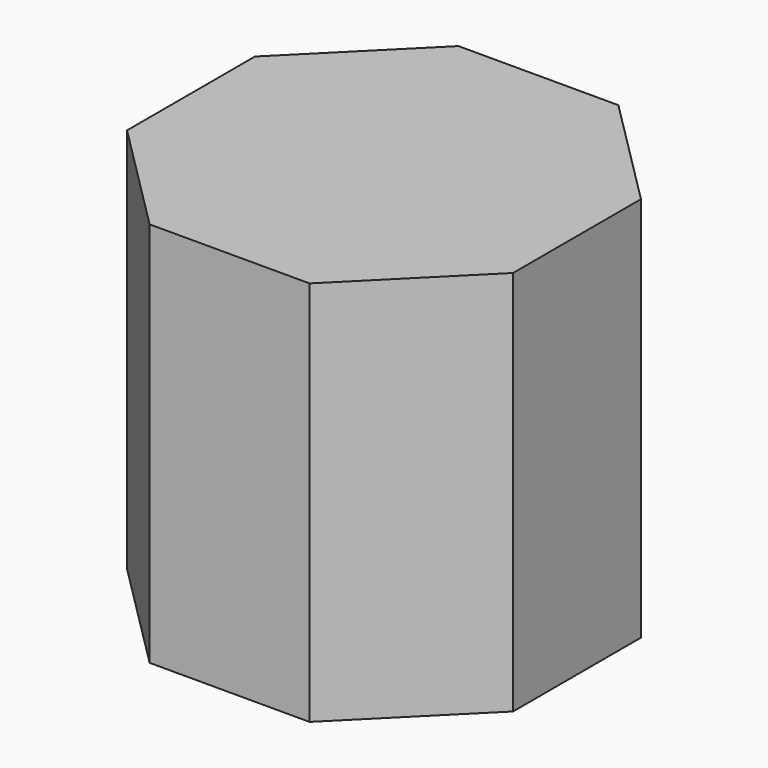
from build123d import *

# Parameters (mm, degrees)
F1_DEPTH = 101.6


with BuildPart() as f1:
    # F0 (on Top) → F1 (new body)
    with BuildSketch(Plane.XY):
        Polygon((-21.042049, -50.8), (21.042049, -50.8), (50.8, -21.042049), (50.8, 21.042049), (21.042049, 50.8), (-21.042049, 50.8), (-50.8, 21.042049), (-50.8, -21.042049), align=None)
    extrude(amount=F1_DEPTH)

    # F2 (on Right) → F3 (revolve, cut)
    with BuildSketch(Plane.YZ):
        with BuildLine():
            Line((-32.129312, 0), (0, 0))
            Line((0, 0), (0, 88.9))
            ThreePointArc((0, 88.9), (-34.480436, 67.008318), (-29.337, 26.490528))
            Line((-29.337, 26.490528), (-32.129312, 0))
        make_face()
    revolve(axis=Axis((0, 0, 44.45), (0, 0, 1)), mode=Mode.SUBTRACT)


solid = f1.part
